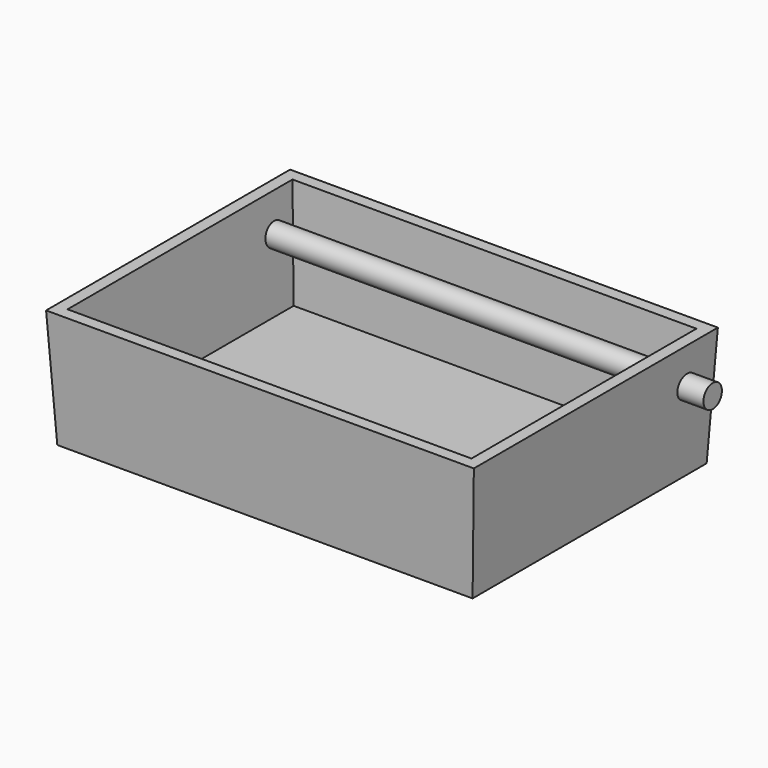
from build123d import *

# Parameters (mm, degrees)
F0_W     = 91.288074851
F0_H     = 65.0969222188
F1_DEPTH = 25.4
F1_TAPER = 3
F2_T     = -2.54
F3_R     = 2.4631952169
F4_DEPTH = 50.8


with BuildPart() as f1:
    # F0 (on Top) → F1 (new body)
    with BuildSketch(Plane.XY):
        Rectangle(F0_W, F0_H)
    extrude(amount=-F1_DEPTH, taper=F1_TAPER)

    # F2
    f2_openings = [f1.faces().sort_by_distance(p)[0] for p in [
        (0, 0, 0),
    ]]
    offset(amount=F2_T, openings=f2_openings)


with BuildPart() as f4:
    # F3 (on Right) → F4 (new body, symmetric)
    with BuildSketch(Plane.YZ):
        with Locations((24.7221812606, -8.0133397132)):
            Circle(F3_R)
    extrude(amount=F4_DEPTH, both=True)


solid = Compound([f1.part, f4.part])
